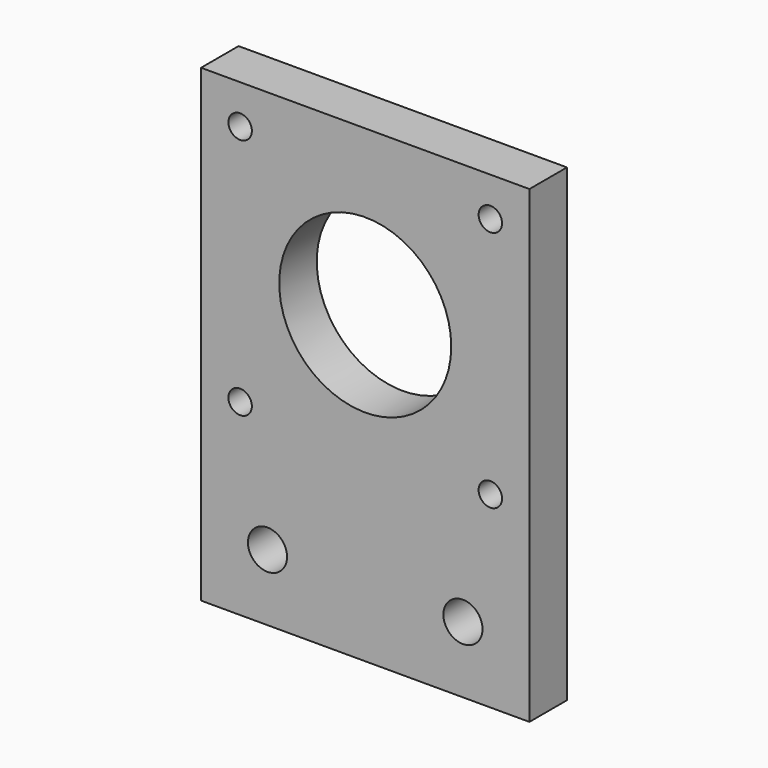
from build123d import *

# Parameters (mm, degrees)
F0_W     = 42
F0_H     = 60
F0_R     = 2.5
F0_R_2   = 1.5
F0_R_3   = 11
F1_DEPTH = 6


with BuildPart() as f1:
    # F0 (on Front) → F1 (new body)
    with BuildSketch(Plane.XZ):
        with Locations((0, 9)):
            Rectangle(F0_W, F0_H)
        with Locations((-12.5, -12.5)):
            Circle(F0_R, mode=Mode.SUBTRACT)
        with Locations((-16, 3)):
            Circle(F0_R_2, mode=Mode.SUBTRACT)
        with Locations((12.5, -12.5)):
            Circle(F0_R, mode=Mode.SUBTRACT)
        with Locations((16, 3)):
            Circle(F0_R_2, mode=Mode.SUBTRACT)
        with Locations((-16, 34)):
            Circle(F0_R_2, mode=Mode.SUBTRACT)
        with Locations((0, 18)):
            Circle(F0_R_3, mode=Mode.SUBTRACT)
        with Locations((16, 34)):
            Circle(F0_R_2, mode=Mode.SUBTRACT)
    extrude(amount=F1_DEPTH)


solid = f1.part
